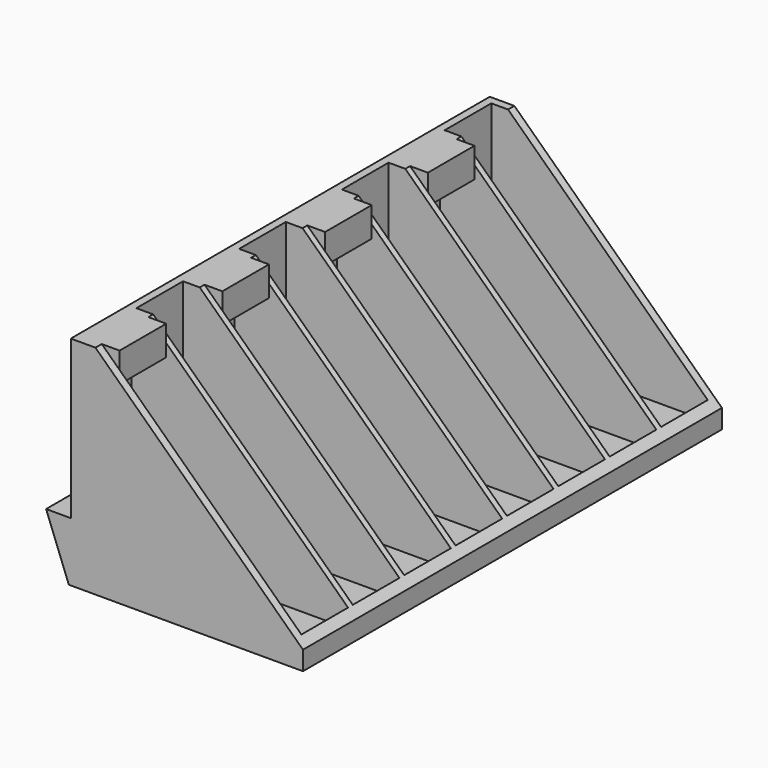
from build123d import *

# Parameters (mm, degrees)
F0_W      = 106
F0_H      = 44
F1_DEPTH  = 47
F2_T      = -1.6
F3_W      = 47
F3_H      = 1.2
F3_W_2    = 46.578951
F4_DEPTH  = 42.4
F6_DEPTH  = 143
F7_W      = 11.8
F7_H      = 6
F8_DEPTH  = 7
F10_DEPTH = 5
F11_W     = 11.8
F11_H     = 6
F12_DEPTH = 7
F13_W     = 11.8
F13_H     = 6
F14_DEPTH = 7
F15_W     = 11.8
F15_H     = 6
F16_DEPTH = 7
F18_DEPTH = 119


with BuildPart() as f1:
    # F0 (on Right) → F1 (new body)
    with BuildSketch(Plane.YZ):
        Rectangle(F0_W, F0_H)
    extrude(amount=F1_DEPTH)

    # F2
    f2_openings = [f1.faces().sort_by_distance(p)[0] for p in [
        (23.5, 0, 22),
    ]]
    offset(amount=F2_T, openings=f2_openings)

    # F3 (on face) → F4 (join)
    with BuildSketch(Plane.XY.offset(-20.4)):
        with Locations((23.5, 0)):
            Rectangle(F3_W, F3_H)
        with Locations((23.289475, 13)):
            Rectangle(F3_W_2, F3_H)
        with Locations((23.289475, 26)):
            Rectangle(F3_W_2, F3_H)
        with Locations((23.289475, 39)):
            Rectangle(F3_W_2, F3_H)
        with Locations((23.289475, -13)):
            Rectangle(F3_W_2, F3_H)
        with Locations((23.289475, -26)):
            Rectangle(F3_W_2, F3_H)
        with Locations((23.289475, -39)):
            Rectangle(F3_W_2, F3_H)
    extrude(amount=F4_DEPTH)

    # F5 (on face) → F6 (cut)
    with BuildSketch(Plane(origin=(0, 53, 0), x_dir=(-1, 0, 0), z_dir=(0, 1, 0))):
        Polygon((-4.991917, 22), (-47, 22), (-47, -18.157896), align=None)
    extrude(amount=-F6_DEPTH, mode=Mode.SUBTRACT)

    # F7 (on face) → F8 (join)
    with BuildSketch(Plane.YZ.offset(1.6)):
        with Locations((32.5, 19)):
            Rectangle(F7_W, F7_H)
    extrude(amount=F8_DEPTH)

    # F9 (on face) → F10 (join)
    with BuildSketch(Plane(origin=(0, 0, 0), x_dir=(0, -1, 0), z_dir=(-1, 0, 0))):
        Polygon((-53, -22), (-8.871453, -22), (-3.871453, -22), (53, -22), (53, -10), (-53, -10), align=None)
    extrude(amount=F10_DEPTH)

    # F11 (on face) → F12 (join)
    with BuildSketch(Plane.YZ.offset(1.6)):
        with Locations((6.5, 19)):
            Rectangle(F11_W, F11_H)
    extrude(amount=F12_DEPTH)

    # F13 (on face) → F14 (join)
    with BuildSketch(Plane.YZ.offset(1.6)):
        with Locations((-19.5, 19)):
            Rectangle(F13_W, F13_H)
    extrude(amount=F14_DEPTH)

    # F15 (on face) → F16 (join)
    with BuildSketch(Plane.YZ.offset(1.6)):
        with Locations((-45.5, 19)):
            Rectangle(F15_W, F15_H)
    extrude(amount=F16_DEPTH)

    # F17 (on face) → F18 (cut)
    with BuildSketch(Plane(origin=(0, 53, 0), x_dir=(-1, 0, 0), z_dir=(0, 1, 0))):
        Polygon((5, -22), (5, -10), (0.393632, -22), align=None)
    extrude(amount=-F18_DEPTH, mode=Mode.SUBTRACT)


solid = f1.part
